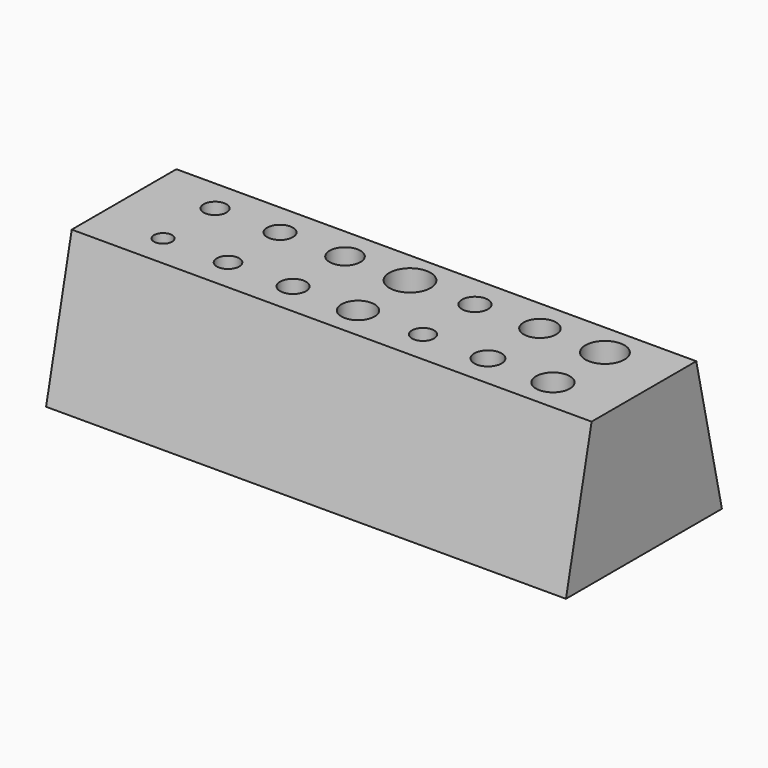
from build123d import *

# Parameters (mm, degrees)
F0_R     = 1.39
F0_R_2   = 1.725
F0_R_3   = 1.985
F0_R_4   = 2.55
F0_R_5   = 1.7
F0_R_6   = 2.1
F0_R_7   = 2.6
F0_R_8   = 1.75
F0_R_9   = 2.38
F0_R_10  = 3.175
F0_R_11  = 2
F0_R_12  = 2.5
F0_R_13  = 3
F1_DEPTH = 22
F2_DEPTH = 3
F4_DEPTH = 300


with BuildPart() as f1:
    # F0 (on Top) → F1 (new body)
    with BuildSketch(Plane.XY):
        Polygon((0, 30), (0, 0), (10, 0), (20, 0), (30, 0), (40, 0), (50, 0), (60, 0), (70, 0), (80, 0), (80, 30), align=None)
        with Locations((10, 10)):
            Circle(F0_R, mode=Mode.SUBTRACT)
        with Locations((20, 10)):
            Circle(F0_R_2, mode=Mode.SUBTRACT)
        with Locations((30, 10)):
            Circle(F0_R_3, mode=Mode.SUBTRACT)
        with Locations((40, 10)):
            Circle(F0_R_4, mode=Mode.SUBTRACT)
        with Locations((50, 10)):
            Circle(F0_R_5, mode=Mode.SUBTRACT)
        with Locations((60, 10)):
            Circle(F0_R_6, mode=Mode.SUBTRACT)
        with Locations((70, 10)):
            Circle(F0_R_7, mode=Mode.SUBTRACT)
        with Locations((10, 20)):
            Circle(F0_R_8, mode=Mode.SUBTRACT)
        with Locations((20, 20)):
            Circle(F0_R_3, mode=Mode.SUBTRACT)
        with Locations((30, 20)):
            Circle(F0_R_9, mode=Mode.SUBTRACT)
        with Locations((40, 20)):
            Circle(F0_R_10, mode=Mode.SUBTRACT)
        with Locations((50, 20)):
            Circle(F0_R_11, mode=Mode.SUBTRACT)
        with Locations((60, 20)):
            Circle(F0_R_12, mode=Mode.SUBTRACT)
        with Locations((70, 20)):
            Circle(F0_R_13, mode=Mode.SUBTRACT)
    extrude(amount=F1_DEPTH)

    # F0 (on Top) → F2 (join)
    with BuildSketch(Plane.XY):
        with Locations((70, 20)):
            Circle(F0_R_13)
        with Locations((70, 10)):
            Circle(F0_R_7)
        with Locations((60, 10)):
            Circle(F0_R_6)
        with Locations((60, 20)):
            Circle(F0_R_12)
        with Locations((50, 20)):
            Circle(F0_R_11)
        with Locations((50, 10)):
            Circle(F0_R_5)
        with Locations((40, 20)):
            Circle(F0_R_10)
        with Locations((40, 10)):
            Circle(F0_R_4)
        with Locations((30, 10)):
            Circle(F0_R_3)
        with Locations((30, 20)):
            Circle(F0_R_9)
        with Locations((20, 20)):
            Circle(F0_R_3)
        with Locations((20, 10)):
            Circle(F0_R_2)
        with Locations((10, 20)):
            Circle(F0_R_8)
        with Locations((10, 10)):
            Circle(F0_R)
    extrude(amount=F2_DEPTH)

    # F3 (on face) → F4 (cut)
    with BuildSketch(Plane(origin=(0, 0, 0), x_dir=(0, -1, 0), z_dir=(-1, 0, 0))):
        Polygon((-30, 22), (-30, 0), (-25.067758, 22), align=None)
        Polygon((-4.932242, 22), (0, 0), (0, 22), align=None)
    extrude(amount=-F4_DEPTH, mode=Mode.SUBTRACT)


solid = f1.part
